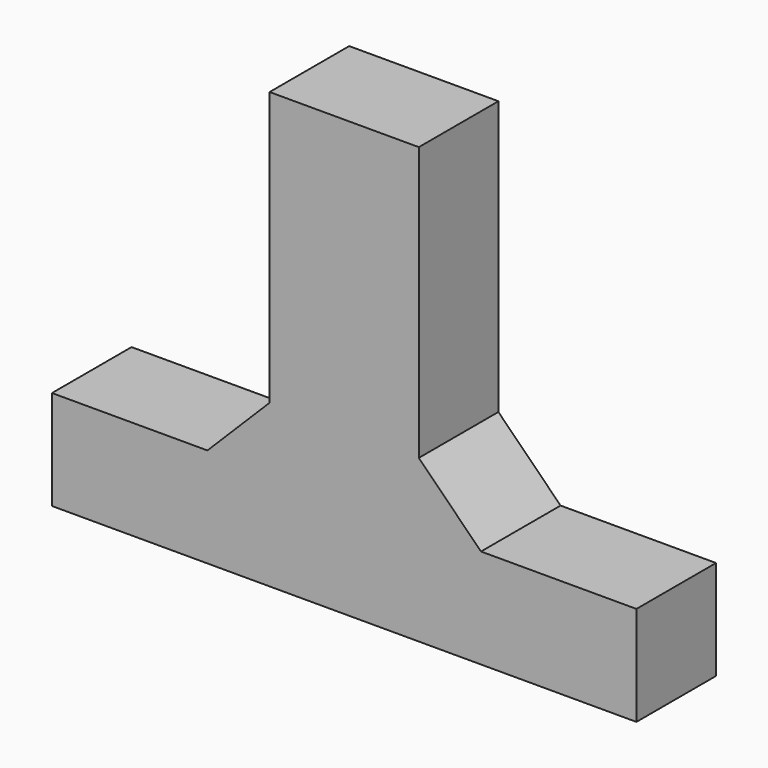
from build123d import *

# Parameters (mm, degrees)
SKETCH_W     = 47
SKETCH_H     = 8
PAD_DEPTH    = 8
SKETCH001_W  = 12
SKETCH001_H  = 8
PAD001_DEPTH = 27
SKETCH002_R  = 1.5
POCKET_DEPTH = 7
CHAMFER_SIZE = 5


with BuildPart() as part:
    # Sketch → Pad (new body)
    with BuildSketch(Plane.XY):
        with Locations((23.5, 4)):
            Rectangle(SKETCH_W, SKETCH_H)
    extrude(amount=PAD_DEPTH)

    # Sketch001 (on Face8 of Pad) → Pad001 (join)
    with BuildSketch(Plane.XY.offset(8)):
        with Locations((23.5, 4)):
            Rectangle(SKETCH001_W, SKETCH001_H)
    extrude(amount=PAD001_DEPTH)

    # Sketch002 (on Face4 of Pad001) → Pocket (cut)
    with BuildSketch(Plane(origin=(0, 0, 0), x_dir=(1, 0, 0), z_dir=(0, 0, -1))):
        with Locations((36, -4)):
            Circle(SKETCH002_R)
        with Locations((11, -4)):
            Circle(SKETCH002_R)
    extrude(amount=-POCKET_DEPTH, mode=Mode.SUBTRACT)

    # Chamfer
    chamfer_edges = [part.edges().sort_by_distance(p)[0] for p in [
        (17.5, 4, 8),
        (29.5, 4, 8),
    ]]
    chamfer(chamfer_edges, length=CHAMFER_SIZE)


solid = part.part
